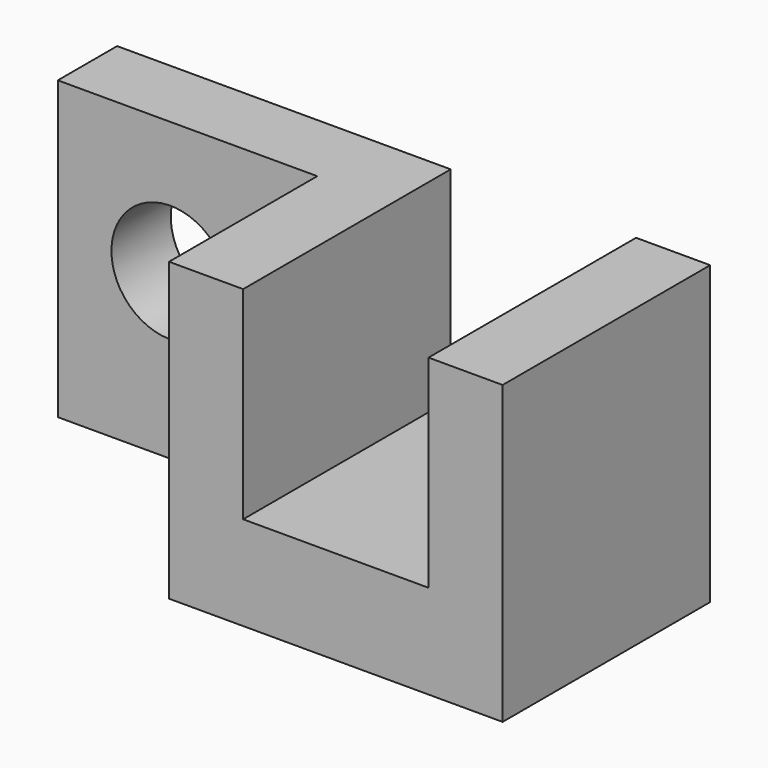
from build123d import *

# Parameters (mm, degrees)
F1_DEPTH = 1.75
F0_W     = 1.75
F0_H     = 2
F0_R     = 0.397265
F2_DEPTH = 0.5


with BuildPart() as f1:
    # F0 (on Front) → F1 (new body)
    with BuildSketch(Plane.XZ):
        Polygon((-23.240385, -33.131445), (-23.740385, -33.131445), (-23.740385, -35.131445), (-23.740385, -35.132118), (-21.490385, -35.132118), (-21.490385, -33.131445), (-21.990385, -33.131445), (-21.990385, -34.498036), (-23.240385, -34.498036), align=None)
    extrude(amount=F1_DEPTH)

    # F0 (on Front) → F2 (join)
    with BuildSketch(Plane.XZ):
        with Locations((-24.615385, -34.131445)):
            Rectangle(F0_W, F0_H)
        with Locations((-24.731431, -34.026194)):
            Circle(F0_R, mode=Mode.SUBTRACT)
    extrude(amount=F2_DEPTH)


solid = f1.part
